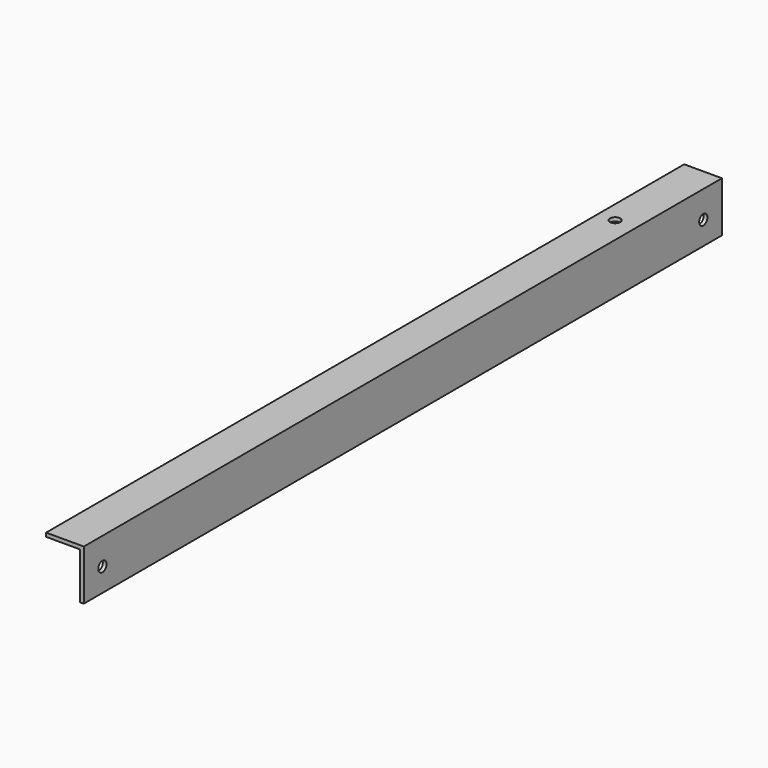
from build123d import *

# Parameters (mm, degrees)
BOX007_W      = 15
BOX007_H      = 317
BOX007_DEPTH  = 20
BOX006_W      = 15
BOX006_H      = 317
BOX006_DEPTH  = 20
SKETCH010_R   = 2.05
HOLE005_DEPTH = 637.469553
SKETCH019_R   = 2.05
HOLE012_DEPTH = 20.001


with BuildPart() as cut017:
    # Box007 → Box007 (new body)
    with BuildSketch(Plane(origin=(1.5, 0, -1.5), x_dir=(1, 0, 0), z_dir=(0, 0, 1))):
        with Locations((7.5, 158.5)):
            Rectangle(BOX007_W, BOX007_H)
    extrude(amount=BOX007_DEPTH)


with BuildPart() as side_middle_body:
    # Box006 → Box006 (new body)
    with BuildSketch(Plane.XY):
        with Locations((7.5, 158.5)):
            Rectangle(BOX006_W, BOX006_H)
    extrude(amount=BOX006_DEPTH)

    # Cut013: cut Cut017
    add(cut017.part, mode=Mode.SUBTRACT)


with BuildPart() as side_middle_body_1:
    # Cut013 placement: moved
    add(side_middle_body.part.moved(Location((1.5, 1.5, 158))))


with BuildPart() as side_middle_body_2:
    # BaseFeature004 placement: moved
    add(side_middle_body_1.part.moved(Location((-1.5, -1.5, -158))))

    # Sketch010 → Hole005 (cut, through all)
    with BuildSketch(Plane.YZ.offset(1.5)):
        with Locations((9.25, 9.25)):
            Circle(SKETCH010_R)
    hole005 = extrude(amount=-HOLE005_DEPTH, mode=Mode.SUBTRACT)

    # Mirrored003: Hole005 across Sketch010 Axis0
    add(hole005.mirror(Plane(origin=(1.5, 158.5, 18.5), x_dir=(1, 0, 0), z_dir=(0, 1, 0))), mode=Mode.SUBTRACT)

    # Sketch019 → Hole012 (cut, through all)
    with BuildSketch(Plane.XY.offset(20)):
        with Locations((8.25, 274.25)):
            Circle(SKETCH019_R)
    extrude(amount=-HOLE012_DEPTH, mode=Mode.SUBTRACT)


with BuildPart() as side_middle_body_3:
    # Body004 placement: moved
    add(side_middle_body_2.part.moved(Location((1.5, 1.5, 169.5))))


with BuildPart() as left_middle_mirror:
    # Part__Mirroring003: instance of side_middle_body
    add(side_middle_body_3.part.mirror(Plane(origin=(1.5e-05, 160, 169.5), x_dir=(0, -1, 0), z_dir=(1, 0, 0))))


with BuildPart() as left_middle_mirror_1:
    # Part__Mirroring003 placement: moved
    add(left_middle_mirror.part.moved(Location((640, 0, 0))))


solid = left_middle_mirror_1.part
